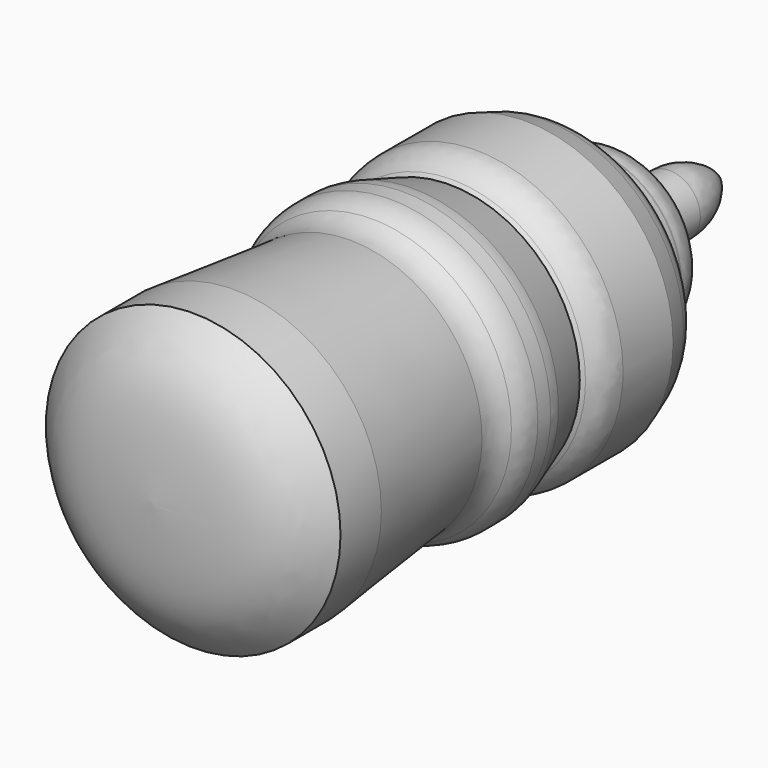
from build123d import *

# Parameters (mm, degrees)
F2_R = 10.0418427949
F3_R = 5
F4_R = 5
F5_R = 5
F6_R = 5
F7_R = 5
F8_R = 5
F9_R = 5


with BuildPart() as f1:
    # F0 (on Top) → F1 (revolve)
    with BuildSketch(Plane.XY):
        with BuildLine():
            Line((3.9978994305, 41.8078787625), (0, 45.2654622495))
            Line((0, 45.2654622495), (0, -46.6173030436))
            add(Edge.make_bspline(
                [(19.1201921552, -40.0373525918), (17.3987358712, -41.8425355299), (13.410823789, -46.0244081204), (4.8598099626, -46.4024499742), (0, -46.6173030436)],
                knots=[0, 0, 0, 0, 0.4316685645, 1, 1, 1, 1], degree=3))
            Line((19.1201921552, -40.0373525918), (19.1201921552, -33.4124453366))
            Line((19.1201921552, -33.4124453366), (16.8782249093, -12.2566334903))
            Line((16.8782249093, -12.2566334903), (19.1201921552, -10.3883286938))
            Line((19.1201921552, -10.3883286938), (19.1201921552, -5.157073494))
            Line((19.1201921552, -5.157073494), (16.8782249093, 1.5688246349))
            Line((16.8782249093, 1.5688246349), (19.1201921552, 3.4371297807))
            Line((19.1201921552, 3.4371297807), (19.1201921552, 10.910349898))
            Line((19.1201921552, 10.910349898), (19.1201921552, 13.8996383175))
            Line((19.1201921552, 13.8996383175), (16.8782249093, 20.2518757433))
            Line((16.8782249093, 20.2518757433), (11.4163085818, 20.2518757433))
            Line((11.4163085818, 20.2518757433), (11.4163085818, 22.2149007022))
            Line((11.4163085818, 22.2149007022), (11.4163085818, 27.1131433547))
            Line((11.4163085818, 27.1131433547), (3.9978994305, 33.7401814759))
            Line((3.9978994305, 33.7401814759), (3.9978994305, 41.8078787625))
        make_face()
    revolve(axis=Axis((0, -0.675920397, 0), (0, -1, 0)))

    # F2
    f2_edges = [f1.edges().sort_by_distance(p)[0] for p in [
        (-3.997899, 41.807879, 0),
        (1.99895, 43.536671, 0),
    ]]
    fillet(f2_edges, radius=F2_R)

    # F3
    f3_edges = [f1.edges().sort_by_distance(p)[0] for p in [
        (-16.878225, 20.251876, 0),
    ]]
    fillet(f3_edges, radius=F3_R)

    # F4
    f4_edges = [f1.edges().sort_by_distance(p)[0] for p in [
        (-19.120192, -5.157073, 0),
    ]]
    fillet(f4_edges, radius=F4_R)

    # F5
    f5_edges = [f1.edges().sort_by_distance(p)[0] for p in [
        (-11.416309, 27.113143, 0),
    ]]
    fillet(f5_edges, radius=F5_R)

    # F6
    f6_edges = [f1.edges().sort_by_distance(p)[0] for p in [
        (-11.416309, 20.251876, 0),
    ]]
    fillet(f6_edges, radius=F6_R)

    # F7
    f7_edges = [f1.edges().sort_by_distance(p)[0] for p in [
        (-19.120192, -10.388329, 0),
    ]]
    fillet(f7_edges, radius=F7_R)

    # F8
    f8_edges = [f1.edges().sort_by_distance(p)[0] for p in [
        (-16.878225, -12.256633, 0),
    ]]
    fillet(f8_edges, radius=F8_R)

    # F9
    f9_edges = [f1.edges().sort_by_distance(p)[0] for p in [
        (-19.120192, 3.43713, 0),
    ]]
    fillet(f9_edges, radius=F9_R)


solid = f1.part
